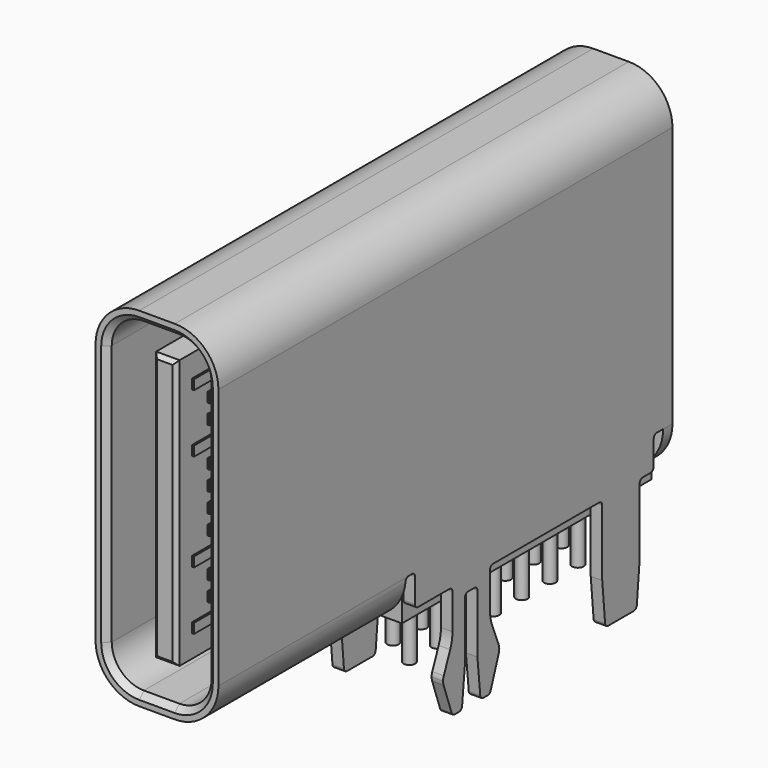
from build123d import *

# Parameters (mm, degrees)
PAD_DEPTH           = 14.25
PAD001_DEPTH        = 0.3
SKETCH002_W         = 3.15
SKETCH002_H         = 8.25
POCKET_DEPTH        = 1.125
SKETCH004_W         = 0.295
SKETCH004_H         = 7.65
PAD003_DEPTH        = 0.825
SKETCH005_W         = 0.295
SKETCH005_H         = 1.2
SKETCH005_H_2       = 1.8
PAD004_DEPTH        = 2.9
POCKET001_DEPTH     = 0.295
POCKET002_DEPTH     = 0.295
POCKET003_DEPTH     = 0.295
POCKET004_DEPTH     = 0.295
FILLET_R            = 0.1
FILLET001_R         = 1
FILLET002_R         = 0.1
CHAMFER_SIZE        = 0.15
PAD005_DEPTH        = 8
SKETCH011_W         = 0.6
SKETCH011_H         = 6.9
PAD006_DEPTH        = 6
CHAMFER001_SIZE     = 0.1
SKETCH015_W         = 2.56
SKETCH015_H         = 8
PAD009_DEPTH        = 0.1
SKETCH014_W         = 2
SKETCH014_H         = 7
PAD008_DEPTH        = 0.1
SKETCH016_R         = 0.15
PAD010_DEPTH        = 1.8
LINEARPATTERN_COUNT = 7
LINEARPATTERN_PITCH = 0.9
SKETCH017_W         = 5.9
SKETCH017_H         = 6.8
PAD011_DEPTH        = 0.2
SKETCH018_W         = 5.5
SKETCH018_H         = 0.25
SKETCH018_W_2       = 5
PAD012_DEPTH        = 0.15
PAD012_DEPTH_BACK   = 0.55
CHAMFER002_SIZE     = 0.15


with BuildPart() as body:
    # Sketch → Pad (new body)
    with BuildSketch(Plane.XZ):
        with BuildLine():
            Line((-0.455, 8.935), (0.455, 8.935))
            ThreePointArc((1.575, 7.815), (1.24696, 8.60696), (0.455, 8.935))
            Line((1.575, 7.815), (1.575, 1.125))
            ThreePointArc((0.455, 0.005), (1.24696, 0.33304), (1.575, 1.125))
            Line((0.455, 0.005), (-0.455, 0.005))
            ThreePointArc((-1.575, 1.125), (-1.24696, 0.33304), (-0.455, 0.005))
            Line((-1.575, 1.125), (-1.575, 7.815))
            ThreePointArc((-0.455, 8.935), (-1.24696, 8.60696), (-1.575, 7.815))
        make_face()
        with BuildLine():
            Line((-0.455, 8.64), (0.455, 8.64))
            ThreePointArc((1.28, 7.815), (1.038363, 8.398363), (0.455, 8.64))
            Line((1.28, 7.815), (1.28, 1.125))
            ThreePointArc((0.455, 0.3), (1.038363, 0.541637), (1.28, 1.125))
            Line((0.455, 0.3), (-0.455, 0.3))
            ThreePointArc((-1.28, 1.125), (-1.038363, 0.541637), (-0.455, 0.3))
            Line((-1.28, 1.125), (-1.28, 7.815))
            ThreePointArc((-0.455, 8.64), (-1.038363, 8.398363), (-1.28, 7.815))
        make_face(mode=Mode.SUBTRACT)
    extrude(amount=PAD_DEPTH)

    # Sketch001 (on Face17 of Pad) → Pad001 (join)
    with BuildSketch(Plane(origin=(0, 0, 0), x_dir=(1, 0, 0), z_dir=(0, 1, 0))):
        with BuildLine():
            Line((0.455, -8.935), (-0.455, -8.935))
            ThreePointArc((-1.575, -7.815), (-1.24696, -8.60696), (-0.455, -8.935))
            Line((-1.575, -7.815), (-1.575, -1.125))
            ThreePointArc((-0.455, -0.005), (-1.24696, -0.33304), (-1.575, -1.125))
            Line((-0.455, -0.005), (0.455, -0.005))
            ThreePointArc((1.575, -1.125), (1.24696, -0.33304), (0.455, -0.005))
            Line((1.575, -1.125), (1.575, -7.815))
            ThreePointArc((0.455, -8.935), (1.24696, -8.60696), (1.575, -7.815))
        make_face()
    extrude(amount=PAD001_DEPTH)

    # Sketch002 (on Face8 of Pad001) → Pocket (cut)
    with BuildSketch(Plane(origin=(0, 0, 0.005), x_dir=(1, 0, 0), z_dir=(0, 0, -1))):
        with Locations((0, 4.125)):
            Rectangle(SKETCH002_W, SKETCH002_H)
    extrude(amount=-POCKET_DEPTH, mode=Mode.SUBTRACT)

    # Sketch004 (on Face19 of Pocket) → Pad003 (join)
    with BuildSketch(Plane(origin=(0, 0, 1.13), x_dir=(1, 0, 0), z_dir=(0, 0, -1))):
        with Locations((1.4275, 4.125)):
            Rectangle(SKETCH004_W, SKETCH004_H)
        with Locations((-1.4275, 4.125)):
            Rectangle(SKETCH004_W, SKETCH004_H)
    extrude(amount=PAD003_DEPTH)

    # Sketch005 (on Face35 of Pad003) → Pad004 (join)
    with BuildSketch(Plane(origin=(0, 0, 0.305), x_dir=(1, 0, 0), z_dir=(0, 0, -1))):
        with Locations((1.4275, 1.35)):
            Rectangle(SKETCH005_W, SKETCH005_H)
        with Locations((1.4275, 6.15)):
            Rectangle(SKETCH005_W, SKETCH005_H_2)
        with Locations((-1.4275, 1.35)):
            Rectangle(SKETCH005_W, SKETCH005_H_2)
        with Locations((-1.4275, 6.15)):
            Rectangle(SKETCH005_W, SKETCH005_H)
    extrude(amount=PAD004_DEPTH)

    # Sketch006 (on Face47 of Pad004) → Pocket001 (cut)
    with BuildSketch(Plane(origin=(1.575, 0, 0), x_dir=(0, 0, 1), z_dir=(1, 0, 0))):
        with BuildLine():
            Line((0.305, 6.75), (-0.895, 6.75))
            Line((-0.895, 6.75), (-1.5825, 7.028107))
            ThreePointArc((-1.5825, 7.028107), (-1.688317, 7.049926), (-1.795, 7.032843))
            Line((-1.795, 7.032843), (-2.595, 6.75))
            Line((-2.595, 6.75), (-2.595, 6.45))
            Line((-2.595, 6.45), (-1.595, 6.35))
            Line((-1.595, 6.35), (0.005, 6.35))
            Line((0.005, 6.35), (0.005, 5.95))
            Line((0.005, 5.95), (-1.595, 5.95))
            Line((-2.595, 5.85), (-1.595, 5.95))
            Line((-2.595, 5.85), (-2.595, 5.55))
            Line((-2.595, 5.55), (-1.795, 5.267157))
            ThreePointArc((-1.795, 5.267157), (-1.688317, 5.250074), (-1.5825, 5.271893))
            Line((-1.5825, 5.271893), (-0.895, 5.55))
            Line((-0.895, 5.55), (0.305, 5.55))
            Line((0.305, 5.55), (0.305, 4.85))
            Line((0.305, 4.85), (-2.995, 4.85))
            Line((-2.995, 4.85), (-2.995, 7.45))
            Line((0.305, 7.45), (-2.995, 7.45))
            Line((0.305, 6.75), (0.305, 7.45))
        make_face()
    extrude(amount=-POCKET001_DEPTH, mode=Mode.SUBTRACT)

    # Sketch007 (on Face36 of Pocket001) → Pocket002 (cut)
    with BuildSketch(Plane(origin=(-1.575, 0, 0), x_dir=(0, 0, -1), z_dir=(-1, 0, 0))):
        with BuildLine():
            Line((-0.305, 1.95), (0.895, 1.95))
            Line((0.895, 1.95), (1.5825, 2.228107))
            ThreePointArc((1.795, 2.232843), (1.688317, 2.249926), (1.5825, 2.228107))
            Line((1.795, 2.232843), (2.595, 1.95))
            Line((2.595, 1.95), (2.595, 1.65))
            Line((2.595, 1.65), (1.595, 1.55))
            Line((1.595, 1.55), (-0.005, 1.55))
            Line((-0.005, 1.55), (-0.005, 1.15))
            Line((-0.005, 1.15), (1.595, 1.15))
            Line((1.595, 1.15), (2.595, 1.05))
            Line((2.595, 1.05), (2.595, 0.75))
            Line((2.595, 0.75), (1.795, 0.467157))
            ThreePointArc((1.5825, 0.471893), (1.688317, 0.450074), (1.795, 0.467157))
            Line((1.5825, 0.471893), (0.895, 0.75))
            Line((0.895, 0.75), (-0.305, 0.75))
            Line((-0.305, 0.75), (-0.305, 0.05))
            Line((-0.305, 0.05), (2.995, 0.05))
            Line((2.995, 0.05), (2.995, 2.65))
            Line((2.995, 2.65), (-0.305, 2.65))
            Line((-0.305, 2.65), (-0.305, 1.95))
        make_face()
    extrude(amount=-POCKET002_DEPTH, mode=Mode.SUBTRACT)

    # Sketch008 (on Face53 of Pocket002) → Pocket003 (cut)
    with BuildSketch(Plane(origin=(1.575, 0, 0), x_dir=(0, 0, 1), z_dir=(1, 0, 0))):
        Polygon((-2.595, 1.85), (-1.495, 1.95), (-1.495, 2.35), (-2.995, 2.35), (-2.995, 0.35), (-1.495, 0.35), (-1.495, 0.75), (-2.595, 0.85), align=None)
    extrude(amount=-POCKET003_DEPTH, mode=Mode.SUBTRACT)

    # Sketch009 (on Face39 of Pocket003) → Pocket004 (cut)
    with BuildSketch(Plane(origin=(-1.575, 0, 0), x_dir=(0, 0, -1), z_dir=(-1, 0, 0))):
        Polygon((2.595, 6.65), (1.495, 6.75), (1.495, 7.15), (2.995, 7.15), (2.995, 5.15), (1.495, 5.15), (1.495, 5.55), (2.595, 5.65), align=None)
    extrude(amount=-POCKET004_DEPTH, mode=Mode.SUBTRACT)

    # Fillet
    fillet_edges = [body.edges().sort_by_distance(p)[0] for p in [
        (1.4275, -0.75, 0.305),
        (1.4275, -0.3, 1.13),
        (1.4275, -0.3, 0.305),
        (1.4275, -5.55, 0.305),
        (1.4275, -6.35, 0.005),
        (1.4275, -1.95, 0.305),
        (1.4275, -5.95, 0.005),
        (1.4275, -6.75, 0.305),
        (1.4275, -7.95, 0.305),
        (1.4275, -7.95, 1.13),
        (1.4275, -8.25, 1.13),
        (-1.4275, -0.3, 1.13),
        (-1.4275, -0.3, 0.305),
        (-1.4275, -0.75, 0.305),
        (-1.4275, -1.55, 0.005),
        (-1.4275, -5.55, 0.305),
        (-1.4275, -1.15, 0.005),
        (-1.4275, -1.95, 0.305),
        (-1.4275, -6.75, 0.305),
        (-1.4275, -7.95, 0.305),
        (-1.4275, -7.95, 1.13),
        (-1.4275, -8.25, 1.13),
    ]]
    fillet(fillet_edges, radius=FILLET_R)

    # Fillet001
    fillet001_edges = [body.edges().sort_by_distance(p)[0] for p in [
        (-1.4275, -0.75, -0.895),
        (-1.4275, -1.95, -0.895),
        (-1.4275, -6.75, -1.495),
        (1.4275, -6.75, -0.895),
        (1.4275, -5.55, -0.895),
    ]]
    fillet(fillet001_edges, radius=FILLET001_R)

    # Fillet002
    fillet002_edges = [body.edges().sort_by_distance(p)[0] for p in [
        (-1.4275, -0.75, -2.595),
        (-1.4275, -1.05, -2.595),
        (-1.4275, -1.65, -2.595),
        (-1.4275, -1.95, -2.595),
        (1.4275, -0.85, -2.595),
        (1.4275, -1.85, -2.595),
        (-1.4275, -5.65, -2.595),
        (-1.4275, -6.65, -2.595),
        (1.4275, -5.55, -2.595),
        (1.4275, -5.85, -2.595),
        (1.4275, -6.45, -2.595),
        (1.4275, -6.75, -2.595),
    ]]
    fillet(fillet002_edges, radius=FILLET002_R)

    # Chamfer
    chamfer_edges = [body.edges().sort_by_distance(p)[0] for p in [
        (-1.28, -14.25, 4.47),
    ]]
    chamfer(chamfer_edges, length=CHAMFER_SIZE)


with BuildPart() as plastic:
    # Sketch010 → Pad005 (new body)
    with BuildSketch(Plane.XZ):
        with BuildLine():
            Line((-0.455, 8.64), (0.455, 8.64))
            ThreePointArc((1.28, 7.815), (1.038363, 8.398363), (0.455, 8.64))
            Line((1.28, 7.815), (1.28, 0))
            Line((1.28, 0), (-1.28, 0))
            Line((-1.28, 0), (-1.28, 7.815))
            ThreePointArc((-0.455, 8.64), (-1.038363, 8.398363), (-1.28, 7.815))
        make_face()
    extrude(amount=PAD005_DEPTH)

    # Sketch011 (on Face8 of Pad005) → Pad006 (join)
    with BuildSketch(Plane.XZ.offset(8)):
        with Locations((0, 4.47)):
            Rectangle(SKETCH011_W, SKETCH011_H)
    extrude(amount=PAD006_DEPTH)

    # Chamfer001
    chamfer001_edges = [plastic.edges().sort_by_distance(p)[0] for p in [
        (0, -14, 7.92),
        (0.3, -14, 4.47),
        (0, -14, 1.02),
        (-0.3, -14, 4.47),
    ]]
    chamfer(chamfer001_edges, length=CHAMFER001_SIZE)

    # Sketch015 (on Face12 of Chamfer001) → Pad009 (join)
    with BuildSketch(Plane(origin=(0, 0, 0), x_dir=(1, 0, 0), z_dir=(0, 0, -1))):
        with Locations((0, 4)):
            Rectangle(SKETCH015_W, SKETCH015_H)
    extrude(amount=PAD009_DEPTH)


with BuildPart() as pins:
    # Sketch014 → Pad008 (new body)
    with BuildSketch(Plane.XY):
        with Locations((0, -4)):
            Rectangle(SKETCH014_W, SKETCH014_H)
    extrude(amount=PAD008_DEPTH)

    # Sketch016 (on Face5 of Pad008) → Pad010 (join)
    with BuildSketch(Plane(origin=(0, 0, 0), x_dir=(1, 0, 0), z_dir=(0, 0, -1))):
        with Locations((-0.39, 6.2)):
            Circle(SKETCH016_R)
        with Locations((0.39, 6.65)):
            Circle(SKETCH016_R)
    pad010 = extrude(amount=PAD010_DEPTH)

    # LinearPattern: Pad010 ×7
    with Locations(*[(0, i * LINEARPATTERN_PITCH, 0) for i in range(1, LINEARPATTERN_COUNT)]):
        add(pad010)


with BuildPart() as contacts:
    # Sketch017 → Pad011 (new body)
    with BuildSketch(Plane.YZ):
        with Locations((-10.95, 4.47)):
            Rectangle(SKETCH017_W, SKETCH017_H)
    extrude(amount=PAD011_DEPTH)

    # Sketch018 (on Face6 of Pad011) → Pad012 (join, two sides)
    with BuildSketch(Plane.YZ.offset(0.2)) as pad012_sk:
        with Locations((-10.75, 7.22)):
            Rectangle(SKETCH018_W, SKETCH018_H)
        with Locations((-10.5, 6.72)):
            Rectangle(SKETCH018_W_2, SKETCH018_H)
        with Locations((-10.5, 6.22)):
            Rectangle(SKETCH018_W_2, SKETCH018_H)
        with Locations((-10.75, 5.72)):
            Rectangle(SKETCH018_W, SKETCH018_H)
        with Locations((-10.5, 5.22)):
            Rectangle(SKETCH018_W_2, SKETCH018_H)
        with Locations((-10.5, 4.72)):
            Rectangle(SKETCH018_W_2, SKETCH018_H)
        with Locations((-10.5, 4.22)):
            Rectangle(SKETCH018_W_2, SKETCH018_H)
        with Locations((-10.5, 3.72)):
            Rectangle(SKETCH018_W_2, SKETCH018_H)
        with Locations((-10.75, 3.22)):
            Rectangle(SKETCH018_W, SKETCH018_H)
        with Locations((-10.5, 2.72)):
            Rectangle(SKETCH018_W_2, SKETCH018_H)
        with Locations((-10.5, 2.22)):
            Rectangle(SKETCH018_W_2, SKETCH018_H)
        with Locations((-10.75, 1.72)):
            Rectangle(SKETCH018_W, SKETCH018_H)
    extrude(amount=PAD012_DEPTH)
    extrude(pad012_sk.sketch, amount=-PAD012_DEPTH_BACK)

    # Chamfer002
    chamfer002_edges = [contacts.edges().sort_by_distance(p)[0] for p in [
        (-0.35, -13.5, 7.22),
        (-0.35, -13, 6.72),
        (-0.35, -13, 6.22),
        (-0.35, -13.5, 5.72),
        (-0.35, -13, 5.22),
        (-0.35, -13, 4.72),
        (-0.35, -13, 4.22),
        (-0.35, -13, 3.72),
        (-0.35, -13.5, 3.22),
        (-0.35, -13, 2.72),
        (-0.35, -13, 2.22),
        (-0.35, -13.5, 1.72),
    ]]
    chamfer(chamfer002_edges, length=CHAMFER002_SIZE)


solid = Compound([body.part, plastic.part, pins.part, contacts.part])
